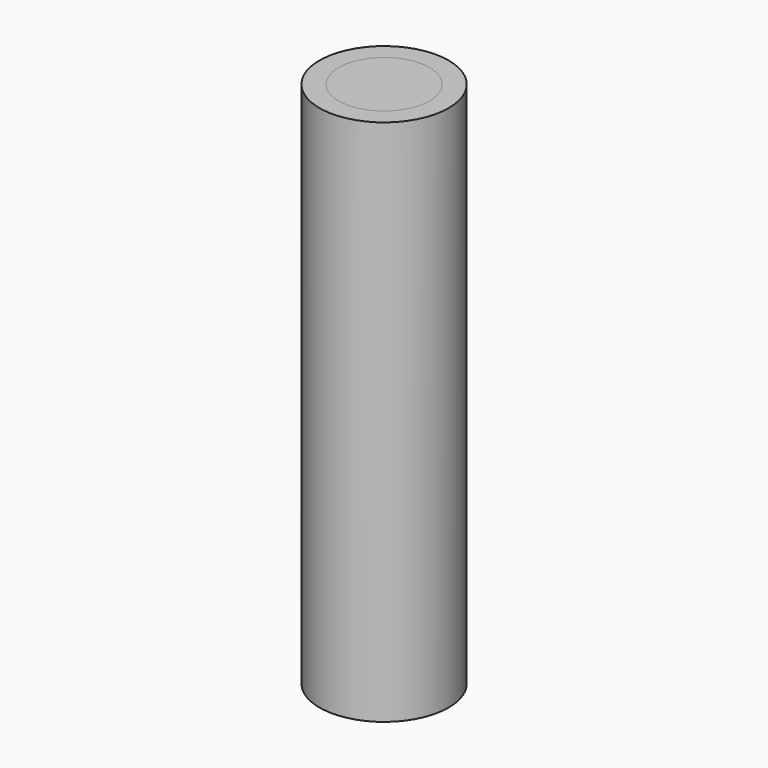
from build123d import *

# Parameters (mm, degrees)
F4_DEPTH = 85
F1_R     = 10.4
F5_DEPTH = 85
F2_R     = 7.3
F6_DEPTH = 85


with BuildPart() as f4:
    # F0 (on Top) → F4 (new body, through all)
    with BuildSketch(Plane.XY):
        Polygon((4.965212, 8.6), (-4.965212, 8.6), (-9.930425, 0), (-4.965212, -8.6), (4.965212, -8.6), (9.930425, 0), align=None)
    extrude(amount=-F4_DEPTH)


with BuildPart() as f5:
    # F1 (on Top) → F5 (new body, through all)
    with BuildSketch(Plane.XY):
        Circle(F1_R)
    extrude(amount=-F5_DEPTH)


with BuildPart() as f6:
    # F2 (on Top) → F6 (new body, through all)
    with BuildSketch(Plane.XY):
        Circle(F2_R)
    extrude(amount=-F6_DEPTH)


solid = Compound([f4.part, f5.part, f6.part])
